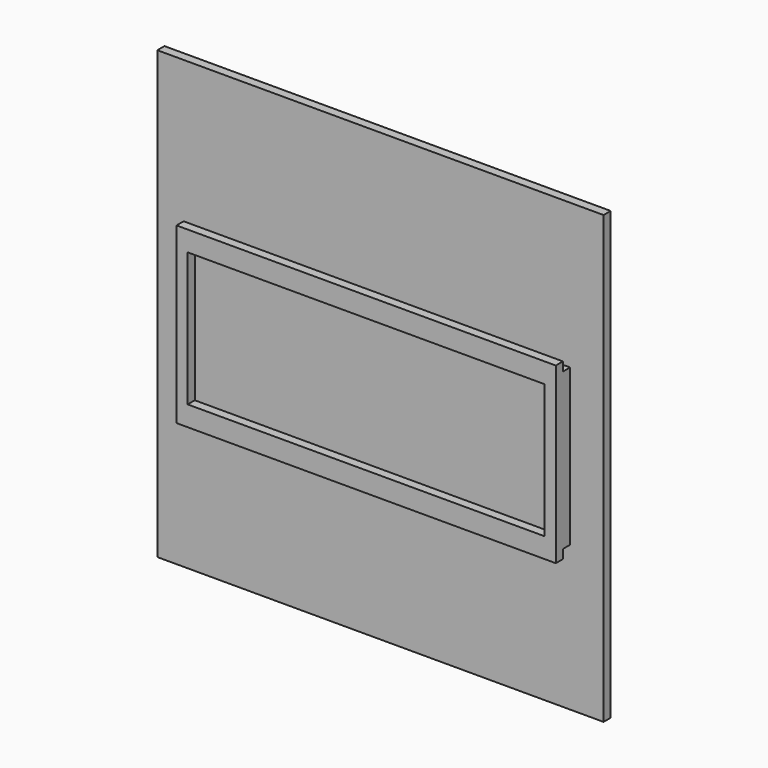
from build123d import *

# Parameters (mm, degrees)
F0_W     = 100
F0_H     = 100
F0_W_2   = 85
F0_H_2   = 35
F0_W_3   = 80
F0_H_3   = 30
F1_DEPTH = 2
F2_DEPTH = 4
F3_W     = 85
F3_H     = 2
F4_DEPTH = 2
F5_W     = 85
F5_H     = 2
F6_DEPTH = 2
F7_DEPTH = 2
F8_W     = 30
F8_H     = 6
F9_DEPTH = 3.5


with BuildPart() as f1:
    # F0 (on Front) → F1 (new body)
    with BuildSketch(Plane.XZ):
        Rectangle(F0_W, F0_H)
        Rectangle(F0_W_2, F0_H_2, mode=Mode.SUBTRACT)
        Rectangle(F0_W_2, F0_H_2)
        Rectangle(F0_W_3, F0_H_3, mode=Mode.SUBTRACT)
        Rectangle(F0_W_3, F0_H_3)
    extrude(amount=-F1_DEPTH)

    # F0 (on Front) → F2 (join)
    with BuildSketch(Plane.XZ):
        Rectangle(F0_W_2, F0_H_2)
        Rectangle(F0_W_3, F0_H_3, mode=Mode.SUBTRACT)
    extrude(amount=F2_DEPTH)

    # F3 (on face) → F4 (join)
    with BuildSketch(Plane(origin=(0, 0, -17.5), x_dir=(1, 0, 0), z_dir=(0, 0, -1))):
        with Locations((0, 3)):
            Rectangle(F3_W, F3_H)
    extrude(amount=F4_DEPTH)

    # F5 (on face) → F6 (join)
    with BuildSketch(Plane.XY.offset(17.5)):
        with Locations((0, -3)):
            Rectangle(F5_W, F5_H)
    extrude(amount=F6_DEPTH)

    # F0 (on Front) → F7 (join)
    with BuildSketch(Plane.XZ):
        Rectangle(F0_W_3, F0_H_3)
    extrude(amount=F7_DEPTH)

    # F8 (on face) → F9 (cut)
    with BuildSketch(Plane(origin=(0, 2, 0), x_dir=(-1, 0, 0), z_dir=(0, 1, 0))):
        Rectangle(F8_W, F8_H)
    extrude(amount=-F9_DEPTH, mode=Mode.SUBTRACT)


solid = f1.part
